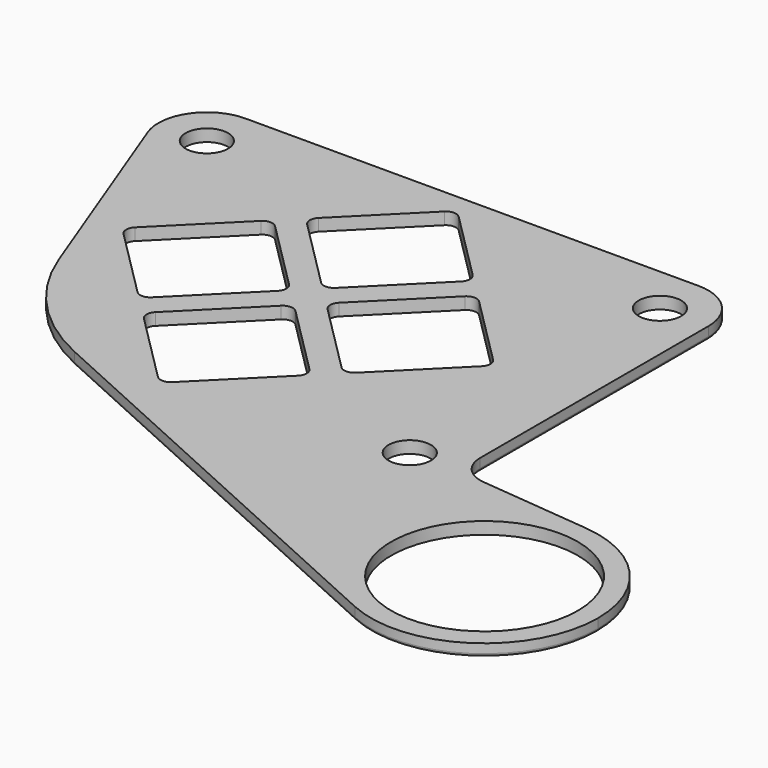
from build123d import *

# Parameters (mm, degrees)
F0_R     = 2.1
F0_R_2   = 9.25
F1_DEPTH = 1.2
F2_R     = 0.3


with BuildPart() as f1:
    # F0 (on Top) → F1 (new body)
    with BuildSketch(Plane.XY):
        with BuildLine():
            ThreePointArc((-77.110974, 15.5), (-78.516861, 18.894113), (-81.910974, 20.3))
            ThreePointArc((-81.910974, 20.3), (-85.861289, 18.226722), (-86.399062, 13.797923))
            ThreePointArc((-86.399062, 13.797923), (-81.045764, 10.778622), (-77.110974, 15.5))
        make_face()
        with Locations((-81.910974, 15.5)):
            Circle(F0_R, mode=Mode.SUBTRACT)
        with BuildLine():
            ThreePointArc((-78.436359, -7.198369), (-76.162026, 11.531763), (-59.455487, 20.3))
            Line((-59.455487, 20.3), (-81.910974, 20.3))
            ThreePointArc((-81.910974, 20.3), (-78.516861, 18.894113), (-77.110974, 15.5))
            ThreePointArc((-77.110974, 15.5), (-81.045764, 10.778622), (-86.399062, 13.797923))
            Line((-86.399062, 13.797923), (-78.436359, -7.198369))
        make_face()
        with BuildLine():
            ThreePointArc((-59.455487, -19), (-46.020458, -13.435029), (-40.455487, 0))
            ThreePointArc((-40.455487, 0), (-46.020458, 13.435029), (-59.455487, 19))
            ThreePointArc((-59.455487, 19), (-78.455487, 0), (-59.455487, -19))
        make_face()
        with BuildLine():
            ThreePointArc((-58.74838, -17.74838), (-59.455487, -18.041273), (-60.162594, -17.74838))
            Line((-60.162594, -17.74838), (-67.09224, -10.818734))
            ThreePointArc((-67.09224, -10.818734), (-67.385133, -10.111627), (-67.09224, -9.40452))
            Line((-67.09224, -9.40452), (-60.162594, -2.474874))
            ThreePointArc((-60.162594, -2.474874), (-59.455487, -2.181981), (-58.74838, -2.474874))
            Line((-58.74838, -2.474874), (-51.818734, -9.40452))
            ThreePointArc((-51.818734, -9.40452), (-51.525841, -10.111627), (-51.818734, -10.818734))
            Line((-51.818734, -10.818734), (-58.74838, -17.74838))
        make_face(mode=Mode.SUBTRACT)
        with BuildLine():
            ThreePointArc((-70.274221, 7.636753), (-69.567114, 7.929646), (-68.860007, 7.636753))
            Line((-68.860007, 7.636753), (-61.930361, 0.707107))
            ThreePointArc((-61.930361, 0.707107), (-61.637468, 0), (-61.930361, -0.707107))
            Line((-61.930361, -0.707107), (-68.860007, -7.636753))
            ThreePointArc((-68.860007, -7.636753), (-69.567114, -7.929646), (-70.274221, -7.636753))
            Line((-70.274221, -7.636753), (-77.203867, -0.707107))
            ThreePointArc((-77.203867, -0.707107), (-77.49676, 0), (-77.203867, 0.707107))
            Line((-77.203867, 0.707107), (-70.274221, 7.636753))
        make_face(mode=Mode.SUBTRACT)
        with BuildLine():
            Line((-48.636753, 7.636753), (-41.707107, 0.707107))
            ThreePointArc((-41.707107, 0.707107), (-41.414214, 0), (-41.707107, -0.707107))
            Line((-41.707107, -0.707107), (-48.636753, -7.636753))
            ThreePointArc((-48.636753, -7.636753), (-49.34386, -7.929646), (-50.050967, -7.636753))
            Line((-50.050967, -7.636753), (-56.980613, -0.707107))
            ThreePointArc((-56.980613, -0.707107), (-57.273506, 0), (-56.980613, 0.707107))
            Line((-56.980613, 0.707107), (-50.050967, 7.636753))
            ThreePointArc((-50.050967, 7.636753), (-49.34386, 7.929646), (-48.636753, 7.636753))
        make_face(mode=Mode.SUBTRACT)
        with BuildLine():
            ThreePointArc((-51.818734, 10.818734), (-51.525841, 10.111627), (-51.818734, 9.40452))
            Line((-51.818734, 9.40452), (-58.74838, 2.474874))
            ThreePointArc((-58.74838, 2.474874), (-59.455487, 2.181981), (-60.162594, 2.474874))
            Line((-60.162594, 2.474874), (-67.09224, 9.40452))
            ThreePointArc((-67.09224, 9.40452), (-67.385133, 10.111627), (-67.09224, 10.818734))
            Line((-67.09224, 10.818734), (-60.162594, 17.74838))
            ThreePointArc((-60.162594, 17.74838), (-59.455487, 18.041273), (-58.74838, 17.74838))
            Line((-58.74838, 17.74838), (-51.818734, 10.818734))
        make_face(mode=Mode.SUBTRACT)
        with BuildLine():
            Line((-40.284814, 19), (-52.30776, 19))
            ThreePointArc((-52.30776, 19), (-42.764339, 11.554028), (-39.155487, 0))
            ThreePointArc((-39.155487, 0), (-42.764339, -11.554028), (-52.30776, -19))
            Line((-52.30776, -19), (-40.284814, -19))
            ThreePointArc((-40.284814, -19), (-40.394113, -12.105887), (-33.5, -12.215186))
            Line((-33.5, -12.215186), (-33.5, 0))
            Line((-33.5, 0), (-33.5, 12.215186))
            ThreePointArc((-33.5, 12.215186), (-40.394113, 12.105887), (-40.284814, 19))
        make_face()
        with BuildLine():
            ThreePointArc((-59.455487, 19), (-46.020458, 13.435029), (-40.455487, 0))
            ThreePointArc((-40.455487, 0), (-46.020458, -13.435029), (-59.455487, -19))
            Line((-59.455487, -19), (-52.30776, -19))
            ThreePointArc((-52.30776, -19), (-42.764339, -11.554028), (-39.155487, 0))
            ThreePointArc((-39.155487, 0), (-42.764339, 11.554028), (-52.30776, 19))
            Line((-52.30776, 19), (-59.455487, 19))
        make_face()
        with BuildLine():
            ThreePointArc((-59.455487, -19), (-78.455487, 0), (-59.455487, 19))
            Line((-59.455487, 19), (-52.30776, 19))
            ThreePointArc((-52.30776, 19), (-55.822995, 19.972356), (-59.455487, 20.3))
            ThreePointArc((-59.455487, 20.3), (-76.162026, 11.531763), (-78.436359, -7.198369))
            ThreePointArc((-78.436359, -7.198369), (-74.258704, -13.890816), (-67.845188, -18.485208))
            ThreePointArc((-67.845188, -18.485208), (-63.747356, -19.841115), (-59.455487, -20.3))
            ThreePointArc((-59.455487, -20.3), (-55.822995, -19.972356), (-52.30776, -19))
            Line((-52.30776, -19), (-59.455487, -19))
        make_face()
        with BuildLine():
            ThreePointArc((-59.455487, 20.3), (-55.822995, 19.972356), (-52.30776, 19))
            Line((-52.30776, 19), (-40.284814, 19))
            ThreePointArc((-40.284814, 19), (-38.766352, 19.963183), (-37, 20.3))
            Line((-37, 20.3), (-59.455487, 20.3))
        make_face()
        with BuildLine():
            ThreePointArc((-37, 20.3), (-38.766352, 19.963183), (-40.284814, 19))
            ThreePointArc((-40.284814, 19), (-40.394113, 12.105887), (-33.5, 12.215186))
            ThreePointArc((-33.5, 12.215186), (-32.536817, 13.733648), (-32.2, 15.5))
            ThreePointArc((-32.2, 15.5), (-33.605887, 18.894113), (-37, 20.3))
        make_face()
        with Locations((-37, 15.5)):
            Circle(F0_R, mode=Mode.SUBTRACT)
        with BuildLine():
            ThreePointArc((-32.2, 15.5), (-32.536817, 13.733648), (-33.5, 12.215186))
            Line((-33.5, 12.215186), (-33.5, 0))
            Line((-33.5, 0), (-32.2, 0))
            Line((-32.2, 0), (-32.2, 4.854651))
            Line((-32.2, 4.854651), (-32.2, 15.5))
        make_face()
        with BuildLine():
            ThreePointArc((-33.5, -12.215186), (-40.394113, -12.105887), (-40.284814, -19))
            ThreePointArc((-40.284814, -19), (-38.766352, -19.963183), (-37, -20.3))
            ThreePointArc((-37, -20.3), (-33.605887, -18.894113), (-32.2, -15.5))
            ThreePointArc((-32.2, -15.5), (-32.536817, -13.733648), (-33.5, -12.215186))
        make_face()
        with Locations((-37, -15.5)):
            Circle(F0_R, mode=Mode.SUBTRACT)
        with BuildLine():
            Line((-40.284814, -19), (-52.30776, -19))
            ThreePointArc((-52.30776, -19), (-55.822995, -19.972356), (-59.455487, -20.3))
            Line((-59.455487, -20.3), (-37, -20.3))
            ThreePointArc((-37, -20.3), (-38.766352, -19.963183), (-40.284814, -19))
        make_face()
        with BuildLine():
            Line((-37, -20.3), (-59.455487, -20.3))
            ThreePointArc((-59.455487, -20.3), (-63.747356, -19.841115), (-67.845188, -18.485208))
            Line((-67.845188, -18.485208), (-24.199465, -38.294266))
            ThreePointArc((-24.199465, -38.294266), (-30.415777, -25.13497), (-18.44759, -16.854144))
            Line((-18.44759, -16.854144), (-29.493976, -15.766451))
            ThreePointArc((-29.493976, -15.766451), (-31.422828, -14.795594), (-32.2, -12.78089))
            Line((-32.2, -12.78089), (-32.2, 0))
            Line((-32.2, 0), (-33.5, 0))
            Line((-33.5, 0), (-33.5, -12.215186))
            ThreePointArc((-33.5, -12.215186), (-32.536817, -13.733648), (-32.2, -15.5))
            ThreePointArc((-32.2, -15.5), (-33.605887, -18.894113), (-37, -20.3))
        make_face()
        with BuildLine():
            ThreePointArc((-18.44759, -16.854144), (-30.415777, -25.13497), (-24.199465, -38.294266))
            ThreePointArc((-24.199465, -38.294266), (-13.456724, -37.506981), (-8.3, -28.05))
            ThreePointArc((-8.3, -28.05), (-11.214395, -20.494857), (-18.44759, -16.854144))
        make_face()
        with Locations((-19.55, -28.05)):
            Circle(F0_R_2, mode=Mode.SUBTRACT)
    extrude(amount=-F1_DEPTH)

    # F2
    f2_edges = [f1.edges().sort_by_distance(p)[0] for p in [
        (-46.022326, -28.389737, -1.2),
        (-74.258704, -13.890816, -1.2),
        (-82.41771, 3.299777, -1.2),
        (-85.861289, 18.226722, -1.2),
        (-59.455487, 20.3, -1.2),
        (-33.605887, 18.894113, -1.2),
        (-32.2, 1.359555, -1.2),
        (-31.422828, -14.795594, -1.2),
        (-23.970783, -16.310298, -1.2),
        (-8.684223, -30.96503, -1.2),
    ]]
    fillet(f2_edges, radius=F2_R)


solid = f1.part
